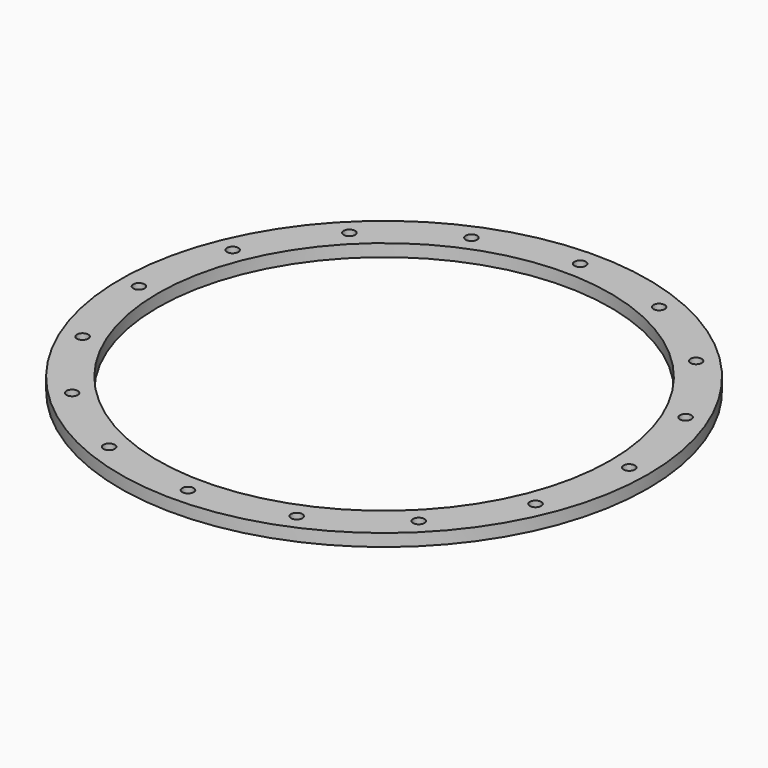
from build123d import *

# Parameters (mm, degrees)
F0_R     = 266.5
F0_R_2   = 228.5
F1_DEPTH = 12.5
F3_D     = 11.50874


with BuildPart() as f1:
    # F0 (on Top) → F1 (new body)
    with BuildSketch(Plane.XY):
        Circle(F0_R)
        Circle(F0_R_2, mode=Mode.SUBTRACT)
    extrude(amount=F1_DEPTH)

    # F3 (through all)
    with Locations(Plane.XY.offset(12.5)):
        with Locations((-94.7141495104, 228.6601842965), (0, 247.5), (94.7141495104, 228.6601842965), (175.0089283437, 175.0089283437), (228.6601842965, 94.7141495104), (247.5, 0), (228.6601842965, -94.7141495104), (175.0089283437, -175.0089283437), (94.7141495104, -228.6601842965), (0, -247.5), (-94.7141495104, -228.6601842965), (-175.0089283437, -175.0089283437), (-228.6601842965, -94.7141495104), (-247.5, 0), (-228.6601842965, 94.7141495104), (-175.0089283437, 175.0089283437)):
            Hole(F3_D / 2)


solid = f1.part
